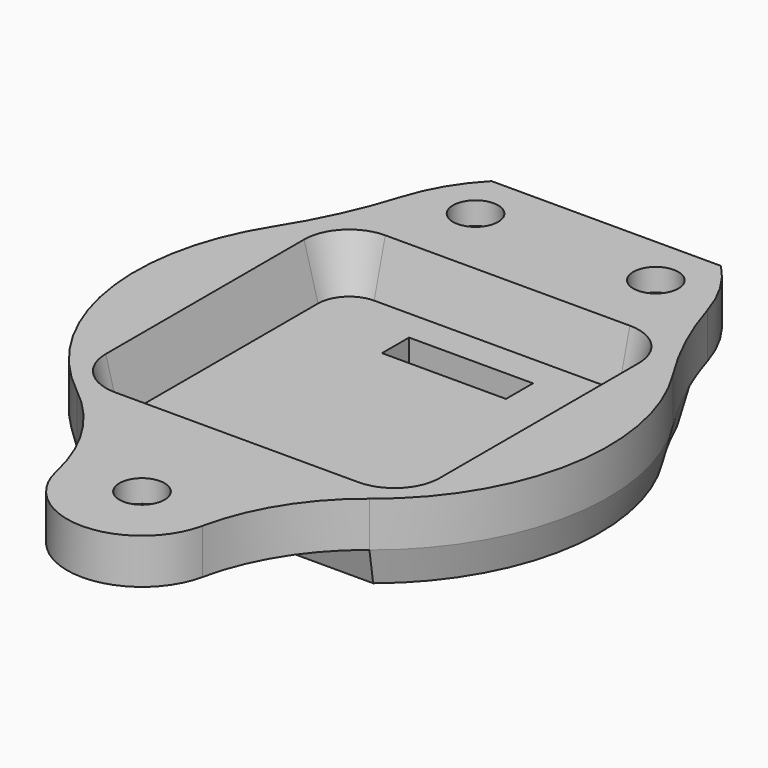
from build123d import *

# Parameters (mm, degrees)
PAD033_DEPTH    = 3
PAD033_TAPER    = 14
SKETCH057_R     = 2
PAD034_DEPTH    = 4
POCKET008_DEPTH = 4.6
POCKET008_TAPER = 15
POCKET009_DEPTH = 2
SKETCH056_W     = 11
SKETCH056_H     = 3
POCKET010_DEPTH = 5


with BuildPart() as part:
    # Sketch055 → Pad033 (new body)
    with BuildSketch(Plane.XY.offset(-4)):
        with BuildLine():
            ThreePointArc((-17.734351, 11.23491), (-16.243686, 13.811706), (-14.965, 16.5))
            Line((-14.965, 16.5), (14.965, 16.5))
            ThreePointArc((14.965, 16.5), (16.243686, 13.811706), (17.734351, 11.23491))
            ThreePointArc((12.98, -16.5), (20.691765, -3.547007), (17.734351, 11.23491))
            Line((-12.98, -16.5), (12.98, -16.5))
            ThreePointArc((-17.734351, 11.23491), (-20.691765, -3.547007), (-12.98, -16.5))
        make_face()
    extrude(amount=-PAD033_DEPTH, taper=PAD033_TAPER)

    # Sketch057 → Pad034 (join)
    with BuildSketch(Plane.XY):
        with BuildLine():
            ThreePointArc((13.586881, 20.251823), (12.228055, 23.328699), (10.184105, 26))
            Line((-10.184105, 26), (10.184105, 26))
            ThreePointArc((-10.184105, 26), (-12.228055, 23.328699), (-13.586881, 20.251823))
            ThreePointArc((-17.728491, 11.256137), (-15.355357, 15.614788), (-13.586881, 20.251823))
            ThreePointArc((-17.728491, 11.256137), (-20.699674, -3.538854), (-12.982142, -16.506483))
            ThreePointArc((-6.502297, -26.893782), (-8.833051, -21.132971), (-12.982142, -16.506483))
            ThreePointArc((-6.502297, -26.893782), (0, -32.15), (6.502297, -26.893782))
            ThreePointArc((12.982142, -16.506483), (8.833051, -21.132971), (6.502297, -26.893782))
            ThreePointArc((12.982142, -16.506483), (20.699674, -3.538854), (17.728491, 11.256137))
            ThreePointArc((13.586881, 20.251823), (15.355357, 15.614788), (17.728491, 11.256137))
        make_face()
        with Locations((0, -25.5)):
            Circle(SKETCH057_R, mode=Mode.SUBTRACT)
        with Locations((-8, 21.5)):
            Circle(SKETCH057_R, mode=Mode.SUBTRACT)
        with Locations((8, 21.5)):
            Circle(SKETCH057_R, mode=Mode.SUBTRACT)
    extrude(amount=-PAD034_DEPTH)

    # Sketch058 → Pocket008 (cut)
    with BuildSketch(Plane.XY):
        with BuildLine():
            Line((-14.85, 11.05), (-14.85, -10.95))
            ThreePointArc((-14.85, -10.95), (-13.649138, -13.849138), (-10.75, -15.05))
            Line((-10.75, -15.05), (10.85, -15.05))
            ThreePointArc((10.85, -15.05), (13.678427, -13.878427), (14.85, -11.05))
            Line((14.85, -11.05), (14.85, 11.05))
            ThreePointArc((14.85, 11.05), (13.678427, 13.878427), (10.85, 15.05))
            Line((10.85, 15.05), (-10.85, 15.05))
            ThreePointArc((-10.85, 15.05), (-13.678427, 13.878427), (-14.85, 11.05))
        make_face()
    extrude(amount=-POCKET008_DEPTH, taper=POCKET008_TAPER, mode=Mode.SUBTRACT)

    # Sketch025 (on Face20 of Pocket008) → Pocket009 (cut)
    with BuildSketch(Plane(origin=(0, -3.3492, -4), x_dir=(1, 0, 0), z_dir=(0, 0, 1))):
        Polygon((12, 24.9), (10, 28.364102), (6, 28.364102), (4, 24.9), (6, 21.435898), (10, 21.435898), align=None)
        Polygon((-4, 24.9), (-6, 28.364102), (-10, 28.364102), (-12, 24.9), (-10, 21.435898), (-6, 21.435898), align=None)
        Polygon((4, -22.1), (2, -18.635898), (-2, -18.635898), (-4, -22.1), (-2, -25.564102), (2, -25.564102), align=None)
    extrude(amount=POCKET009_DEPTH, mode=Mode.SUBTRACT)

    # Sketch056 → Pocket010 (cut)
    with BuildSketch(Plane.XY.offset(-4)):
        with Locations((0, 9.5)):
            Rectangle(SKETCH056_W, SKETCH056_H)
    extrude(amount=-POCKET010_DEPTH, mode=Mode.SUBTRACT)


with BuildPart() as part_1:
    # Body016 placement: moved
    add(part.part.moved(Location((0, 0, -10))))


solid = part_1.part
